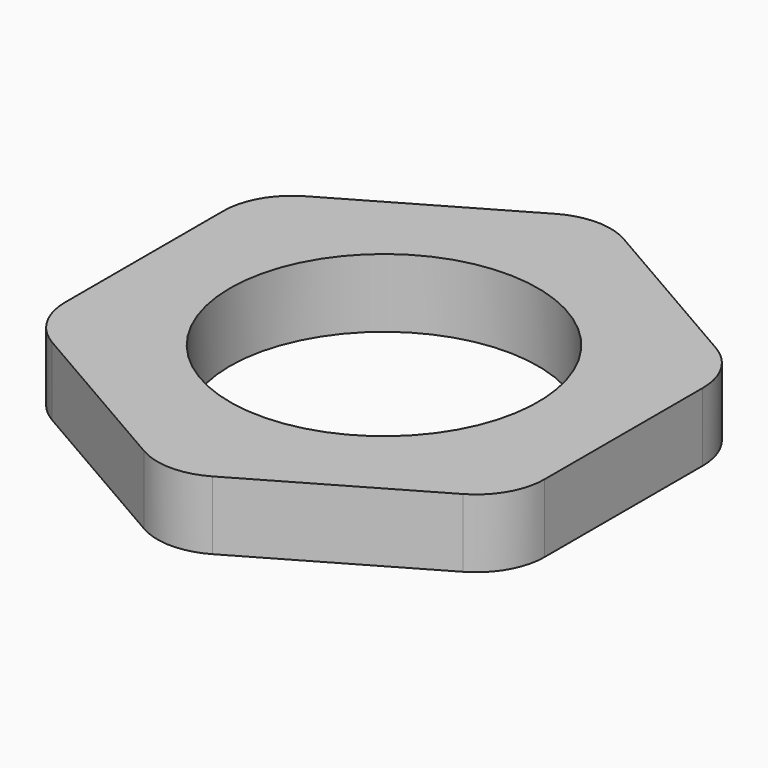
from build123d import *

# Parameters (mm, degrees)
F0_R     = 5
F1_DEPTH = 2
F2_D     = 9
F3_R     = 2


with BuildPart() as f1:
    # F0 (on Top) → F1 (new body)
    with BuildSketch(Plane.XY):
        Polygon((0, -8.0829037687), (7, -4.0414518843), (7, 4.0414518843), (0, 8.0829037687), (-7, 4.0414518843), (-7, -4.0414518843), align=None)
        Circle(F0_R, mode=Mode.SUBTRACT)
        Circle(F0_R)
    extrude(amount=F1_DEPTH)

    # F2 (through all)
    with Locations(Plane(origin=(0, 0, 0), x_dir=(1, 0, 0), z_dir=(0, 0, -1))):
        with Locations((0, 0)):
            Hole(F2_D / 2)

    # F3
    f3_edges = [f1.edges().sort_by_distance(p)[0] for p in [
        (0, -8.082904, 1),
        (7, -4.041452, 1),
        (7, 4.041452, 1),
        (0, 8.082904, 1),
        (-7, 4.041452, 1),
        (-7, -4.041452, 1),
    ]]
    fillet(f3_edges, radius=F3_R)


solid = f1.part
